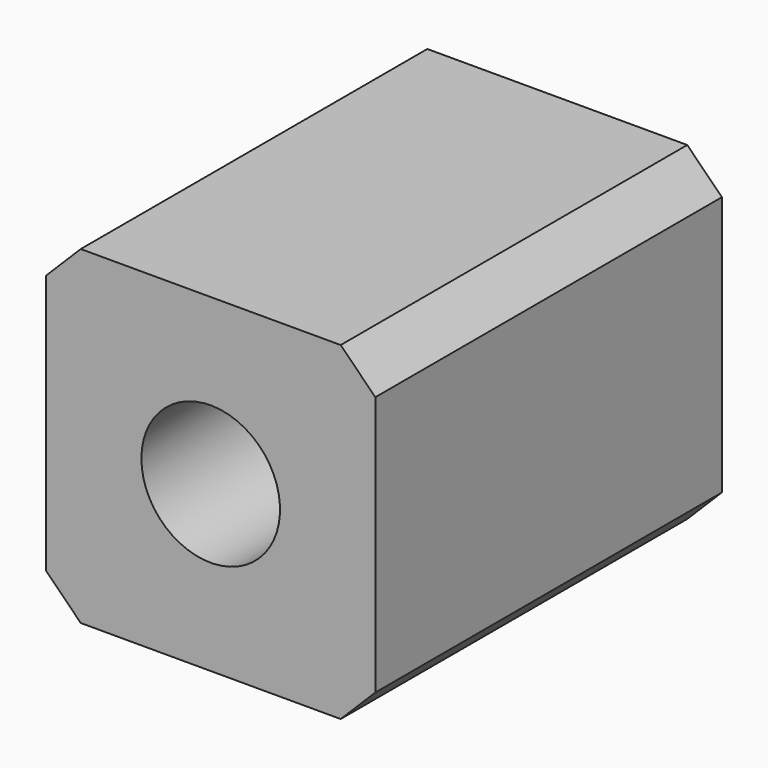
from build123d import *

# Parameters (mm, degrees)
F0_W     = 19
F0_H     = 19
F1_DEPTH = 25
F3_SIZE  = 2
F4_SIZE  = 2
F5_SIZE  = 2
F2_R     = 4
F6_DEPTH = 25


with BuildPart() as f1:
    # F0 (on Front) → F1 (new body)
    with BuildSketch(Plane.XZ):
        Rectangle(F0_W, F0_H)
    extrude(amount=F1_DEPTH)

    # F3
    f3_edges = [f1.edges().sort_by_distance(p)[0] for p in [
        (9.5, -12.5, -9.5),
        (9.5, -12.5, 9.5),
    ]]
    chamfer(f3_edges, length=F3_SIZE)

    # F4
    f4_edges = [f1.edges().sort_by_distance(p)[0] for p in [
        (-9.5, -12.5, 9.5),
    ]]
    chamfer(f4_edges, length=F4_SIZE)

    # F5
    f5_edges = [f1.edges().sort_by_distance(p)[0] for p in [
        (-9.5, -12.5, -9.5),
    ]]
    chamfer(f5_edges, length=F5_SIZE)

    # F2 (on face) → F6 (cut)
    with BuildSketch(Plane(origin=(0, 0, 0), x_dir=(-1, 0, 0), z_dir=(0, 1, 0))):
        Circle(F2_R)
    extrude(amount=-F6_DEPTH, mode=Mode.SUBTRACT)


solid = f1.part
